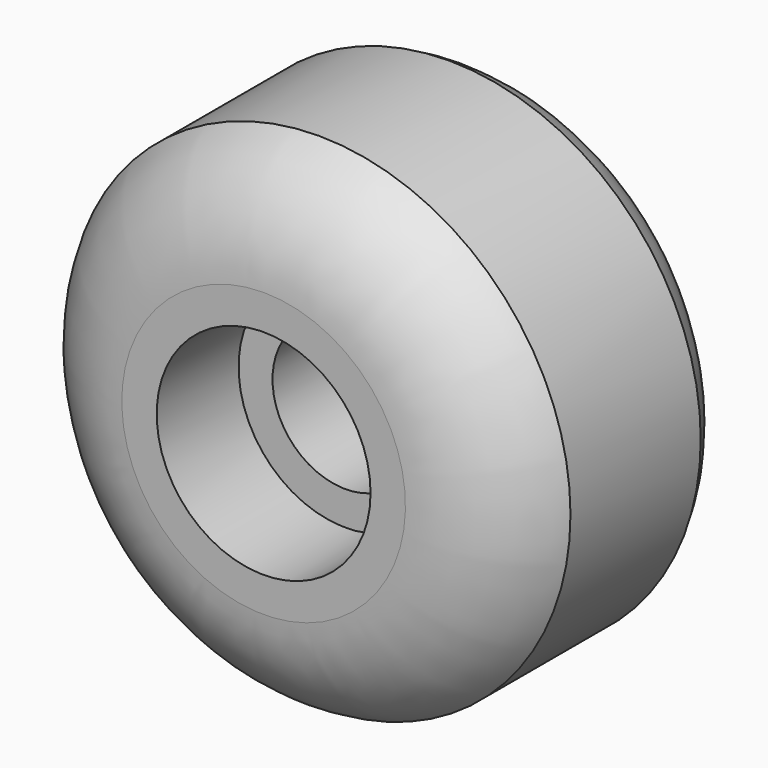
from build123d import *

# Parameters (mm, degrees)
F0_R     = 25.908
F0_R_2   = 7.5184
F1_DEPTH = 15.494
F2_R     = 11.0109
F3_DEPTH = 10.541
F4_R     = 11.0109
F5_DEPTH = 10.541


with BuildPart() as f1:
    # F0 (on Front) → F1 (new body, symmetric)
    with BuildSketch(Plane.XZ):
        Circle(F0_R)
        Circle(F0_R_2, mode=Mode.SUBTRACT)
    extrude(amount=F1_DEPTH, both=True)

    # F2 (on face) → F3 (cut)
    with BuildSketch(Plane.XZ.offset(15.494)):
        Circle(F2_R)
    extrude(amount=-F3_DEPTH, mode=Mode.SUBTRACT)

    # F4 (on face) → F5 (cut)
    with BuildSketch(Plane(origin=(0, 15.494, 0), x_dir=(-1, 0, 0), z_dir=(0, 1, 0))):
        Circle(F4_R)
    extrude(amount=-F5_DEPTH, mode=Mode.SUBTRACT)

    # F6 (on Right) → F7 (revolve, cut)
    with BuildSketch(Plane.YZ):
        with BuildLine():
            Line((-15.494, 14.4014569813), (-15.494, 14.605))
            ThreePointArc((-15.494, 14.605), (-15.4944077798, 14.5032284906), (-15.494, 14.4014569813))
        make_face()
        with BuildLine():
            ThreePointArc((15.494, 14.4014569813), (15.4944077798, 14.5032284906), (15.494, 14.605))
            Line((15.494, 14.605), (15.494, 14.4014569813))
        make_face()
        with BuildLine():
            Line((-8.382, 25.908), (8.382, 25.908))
            ThreePointArc((8.382, 25.908), (4.2751259826, 27.1166131912), (0, 26.8919848915))
            ThreePointArc((0, 26.8919848915), (-4.2751259826, 27.1166131912), (-8.382, 25.908))
        make_face()
        with BuildLine():
            ThreePointArc((0, 26.8919848915), (4.2751259826, 27.1166131912), (8.382, 25.908))
            ThreePointArc((8.382, 25.908), (13.5435812801, 21.2667533897), (15.494, 14.605))
            Line((15.494, 14.605), (15.494, 30.48))
            Line((15.494, 30.48), (-15.494, 30.48))
            Line((-15.494, 30.48), (-15.494, 14.605))
            ThreePointArc((-15.494, 14.605), (-13.5435812801, 21.2667533897), (-8.382, 25.908))
            ThreePointArc((-8.382, 25.908), (-4.2751259826, 27.1166131912), (0, 26.8919848915))
        make_face()
    revolve(axis=Axis((0, -4.953, 0), (0, 1, 0)), mode=Mode.SUBTRACT)


solid = f1.part
